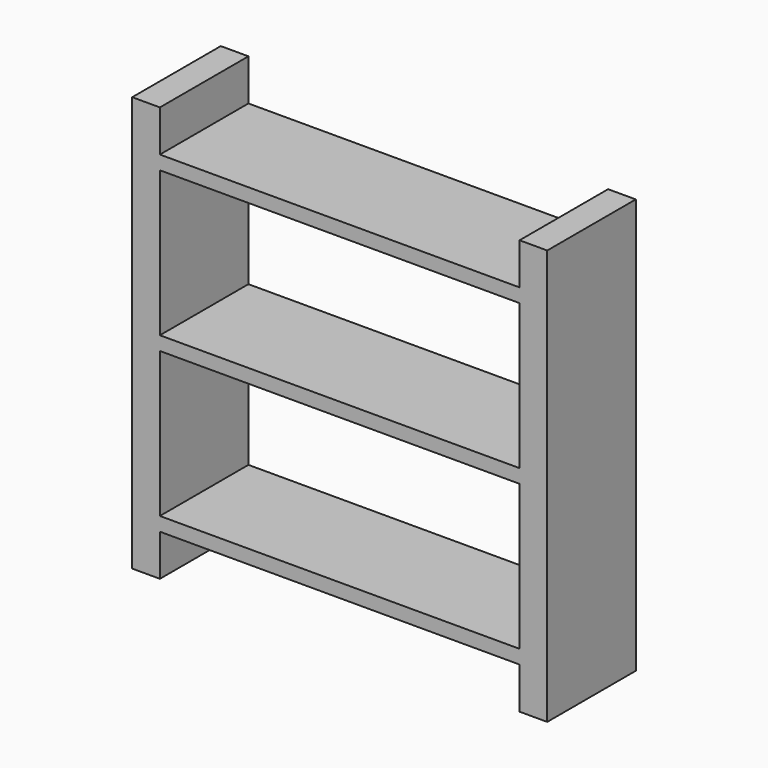
from build123d import *

# Parameters (mm, degrees)
F0_W     = 2600
F0_H     = 1050
F1_DEPTH = 800


with BuildPart() as f1:
    # F0 (on Front) → F1 (new body)
    with BuildSketch(Plane.XZ):
        Polygon((-2977.776652, -1550), (-2977.776652, -1250), (-377.776652, -1250), (-377.776652, -1550), (-177.776652, -1550), (-177.776652, 1450), (-377.776652, 1450), (-377.776652, 1150), (-2977.776652, 1150), (-2977.776652, 1450), (-3177.776652, 1450), (-3177.776652, -1550), align=None)
        with Locations((-1677.776652, -625)):
            Rectangle(F0_W, F0_H, mode=Mode.SUBTRACT)
        with Locations((-1677.776652, 525)):
            Rectangle(F0_W, F0_H, mode=Mode.SUBTRACT)
    extrude(amount=F1_DEPTH)


solid = f1.part
